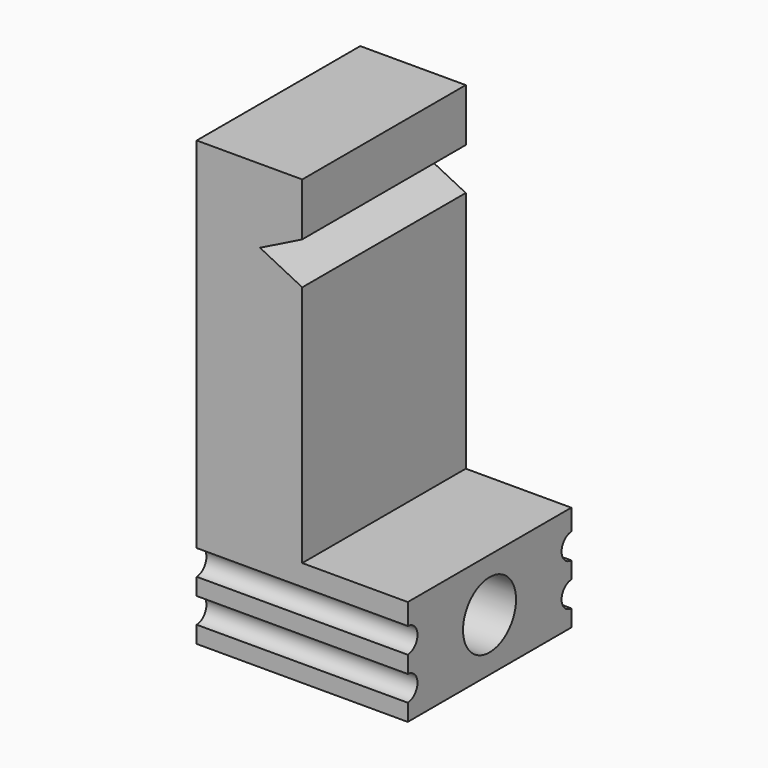
from build123d import *

# Parameters (mm, degrees)
F0_W     = 12.7
F0_H     = 12.3
F1_DEPTH = 6.35
F2_W     = 6.35
F2_H     = 12.3
F3_DEPTH = 20.32
F4_R     = 1.9939
F5_DEPTH = 12.701
F7_DEPTH = 12.301
F9_DEPTH = 12.701


with BuildPart() as f1:
    # F0 (on Top) → F1 (new body)
    with BuildSketch(Plane.XY):
        Rectangle(F0_W, F0_H)
    extrude(amount=F1_DEPTH)

    # F2 (on face) → F3 (join)
    with BuildSketch(Plane.XY.offset(6.35)):
        with Locations((-3.175, 0)):
            Rectangle(F2_W, F2_H)
    extrude(amount=F3_DEPTH)

    # F4 (on face) → F5 (cut, through all)
    with BuildSketch(Plane.YZ.offset(6.35)):
        with Locations((0, 3.175)):
            Circle(F4_R)
    extrude(amount=-F5_DEPTH, mode=Mode.SUBTRACT)

    # F6 (on face) → F7 (cut, through all)
    with BuildSketch(Plane.XZ.offset(6.15)):
        Polygon((0, 20.955), (0, 23.495), (-2.54, 22.225), align=None)
    extrude(amount=-F7_DEPTH, mode=Mode.SUBTRACT)

    # F8 (on face) → F9 (cut, through all)
    with BuildSketch(Plane.YZ.offset(6.35)):
        with BuildLine():
            Line((-6.15, 5.08), (-6.15, 3.557324))
            ThreePointArc((-6.15, 3.557324), (-5.41976, 4.318662), (-6.15, 5.08))
        make_face()
        with BuildLine():
            Line((-6.15, 2.54), (-6.15, 1.017324))
            ThreePointArc((-6.15, 1.017324), (-5.41976, 1.778662), (-6.15, 2.54))
        make_face()
        with BuildLine():
            ThreePointArc((6.15, 2.54), (5.41976, 1.778662), (6.15, 1.017324))
            Line((6.15, 1.017324), (6.15, 2.54))
        make_face()
        with BuildLine():
            ThreePointArc((6.15, 5.08), (5.41976, 4.318662), (6.15, 3.557324))
            Line((6.15, 3.557324), (6.15, 5.08))
        make_face()
    extrude(amount=-F9_DEPTH, mode=Mode.SUBTRACT)


solid = f1.part
